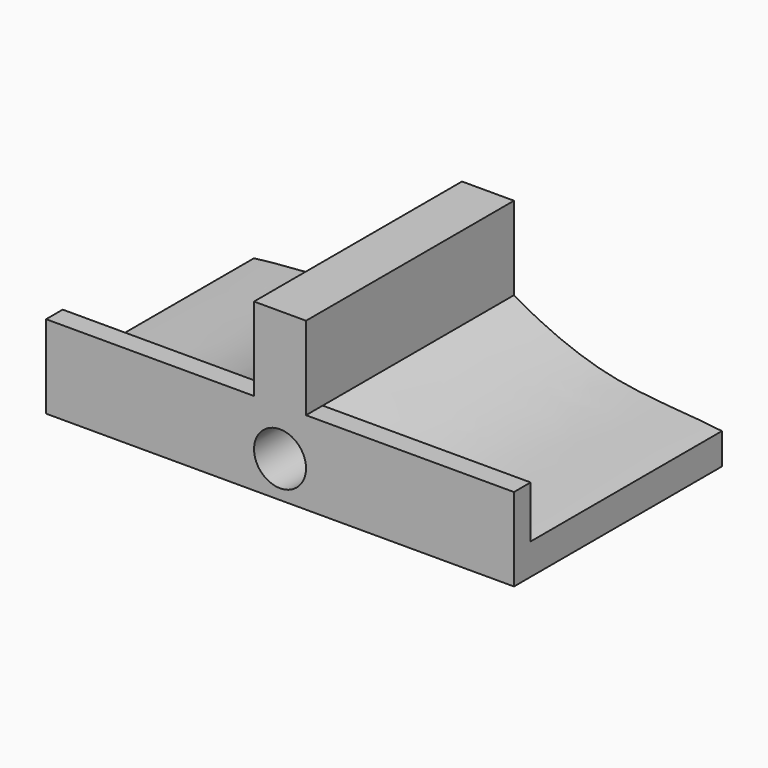
from build123d import *

# Parameters (mm, degrees)
F1_DEPTH = 25
F2_W     = 45
F2_H     = 2
F3_DEPTH = 8
F4_R     = 2.5
F5_DEPTH = 25.0010001


with BuildPart() as f1:
    # F0 (on Front) → F1 (new body)
    with BuildSketch(Plane.XZ):
        with BuildLine():
            Line((2.5, 8), (-2.5, 8))
            Line((-2.5, 8), (-2.5, 0))
            add(Edge.make_bspline(
                [(-22.5, -5), (-19.3471894975, -4.5721768041), (-11.550922006, -4.5818809698), (-4.9118634705, -1.4177504321), (-2.5, 0)],
                knots=[0, 0, 0, 0, 0.5120347551, 1, 1, 1, 1], degree=3))
            Line((-22.5, -5), (-22.5, -8))
            Line((-22.5, -8), (-2.5, -8))
            Line((-2.5, -8), (2.5, -8))
            Line((2.5, -8), (22.5, -8))
            Line((22.5, -8), (22.5, -5))
            add(Edge.make_bspline(
                [(22.5, -5), (19.3471894975, -4.5721768041), (11.550922006, -4.5818809698), (4.9118634705, -1.4177504321), (2.5, 0)],
                knots=[0, 0, 0, 0, 0.5120347551, 1, 1, 1, 1], degree=3))
            Line((2.5, 0), (2.5, 8))
        make_face()
    extrude(amount=F1_DEPTH)

    # F2 (on Top) → F3 (join)
    with BuildSketch(Plane.XY):
        with Locations((0, -24)):
            Rectangle(F2_W, F2_H)
    extrude(amount=-F3_DEPTH)

    # F4 (on face) → F5 (cut, through all)
    with BuildSketch(Plane.XZ.offset(25)):
        with Locations((0, -4.5)):
            Circle(F4_R)
    extrude(amount=-F5_DEPTH, mode=Mode.SUBTRACT)


solid = f1.part
